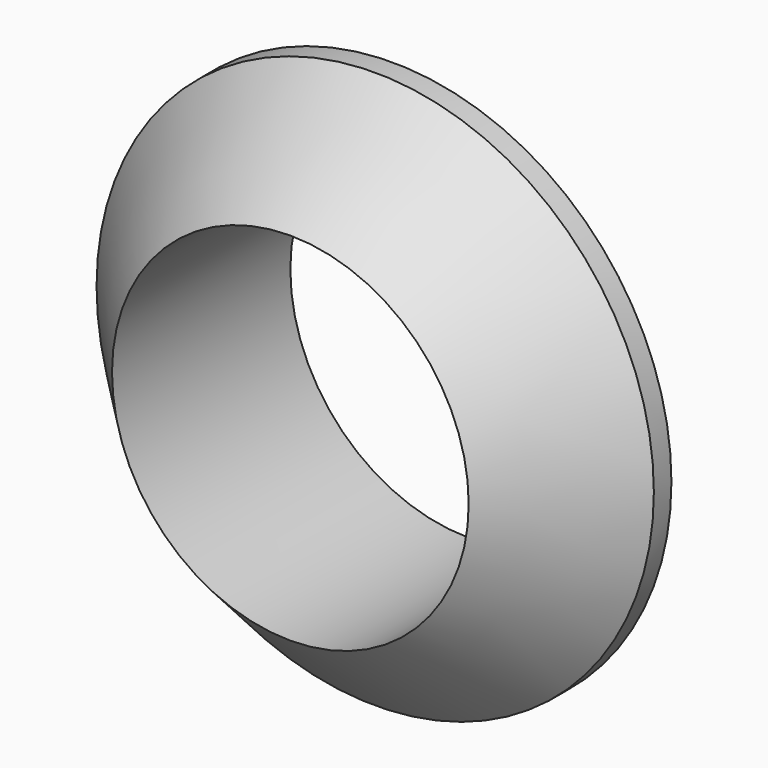
from build123d import *


with BuildPart() as part:
    # Sketch → Revolution (revolve)
    with BuildSketch(Plane.XY):
        Polygon((-1.6, 1), (-1.6, -1), (-2.5, -0.048215), (-2.5, 0.148967), align=None)
    revolve(axis=Axis((0, 0, 0), (0, 1, 0)))


solid = part.part
